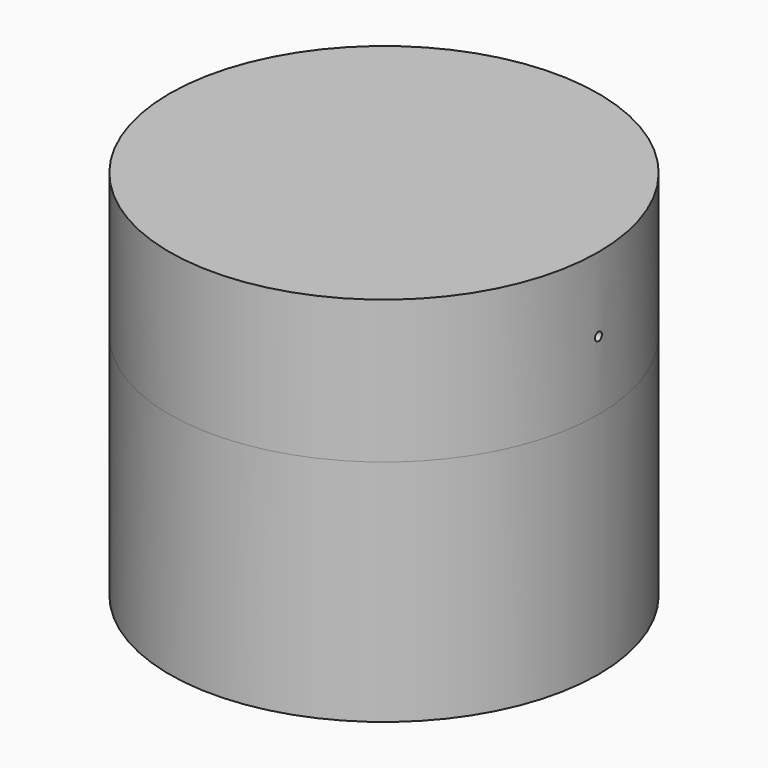
from build123d import *

# Parameters (mm, degrees)
F1_DEPTH  = 40
F2_R      = 37.5
F3_DEPTH  = 25
F4_R      = 0.75
F5_DEPTH  = 12
F10_R     = 0.75
F11_DEPTH = 17.9996390248


with BuildPart() as f1:
    # F0 (on Top) → F1 (new body)
    with BuildSketch(Plane.XY):
        with BuildLine():
            Line((29.5, 0), (37.5, 0))
            ThreePointArc((37.5, 0), (0, 37.5), (-37.5, 0))
            Line((-37.5, 0), (-29.5, 0))
            ThreePointArc((-29.5, 0), (-19.5, 10), (-9.5, 0))
            Line((-9.5, 0), (-3, 0))
            ThreePointArc((-3, 0), (0, 3), (3, 0))
            Line((3, 0), (9.5, 0))
            ThreePointArc((9.5, 0), (19.5, 10), (29.5, 0))
        make_face()
        with BuildLine():
            ThreePointArc((-37.5, 0), (0, -37.5), (37.5, 0))
            Line((37.5, 0), (29.5, 0))
            ThreePointArc((29.5, 0), (19.5, -10), (9.5, 0))
            Line((9.5, 0), (3, 0))
            ThreePointArc((3, 0), (0, -3), (-3, 0))
            Line((-3, 0), (-9.5, 0))
            ThreePointArc((-9.5, 0), (-19.5, -10), (-29.5, 0))
            Line((-29.5, 0), (-37.5, 0))
        make_face()
    extrude(amount=F1_DEPTH)

    # F2 (on face) → F3 (join)
    with BuildSketch(Plane.XY.offset(40)):
        Circle(F2_R)
    extrude(amount=F3_DEPTH)

    # F4 (on face) → F5 (cut)
    with BuildSketch(Plane(origin=(0, 0, 40), x_dir=(1, 0, 0), z_dir=(0, 0, -1))):
        with Locations((19.5, 0)):
            Circle(F4_R)
    extrude(amount=-F5_DEPTH, mode=Mode.SUBTRACT)

    # F10 (on plane+point) → F11 (cut, through all)
    with BuildSketch(Plane.YZ.offset(19.5013609752)):
        with Locations((0, 52.0066283643)):
            Circle(F10_R)
    extrude(amount=F11_DEPTH, mode=Mode.SUBTRACT)


solid = f1.part
